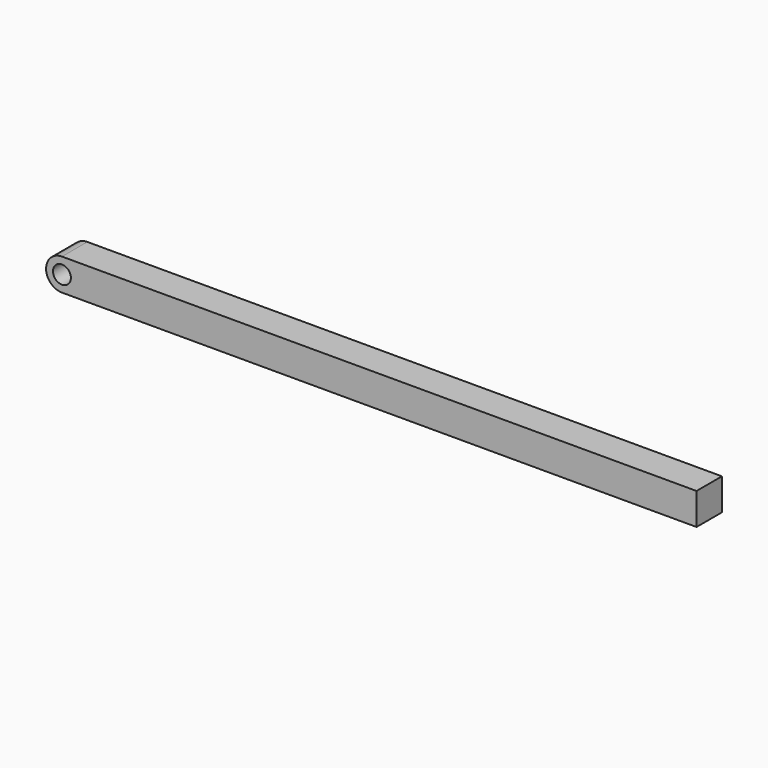
from build123d import *

# Parameters (mm, degrees)
F0_R     = 7.1501
F1_DEPTH = 25.4


with BuildPart() as f1:
    # F0 (on Front) → F1 (new body)
    with BuildSketch(Plane.XZ):
        with BuildLine():
            ThreePointArc((0, 12.7), (8.980256, 8.980256), (12.7, 0))
            ThreePointArc((12.7, 0), (8.980256, -8.980256), (0, -12.7))
            Line((0, -12.7), (508, -12.7))
            Line((508, -12.7), (508, 12.7))
            Line((508, 12.7), (0, 12.7))
        make_face()
        with BuildLine():
            ThreePointArc((0, -12.7), (8.980256, -8.980256), (12.7, 0))
            ThreePointArc((12.7, 0), (8.980256, 8.980256), (0, 12.7))
            ThreePointArc((0, 12.7), (-12.7, 0), (0, -12.7))
        make_face()
        Circle(F0_R, mode=Mode.SUBTRACT)
    extrude(amount=F1_DEPTH)


solid = f1.part
